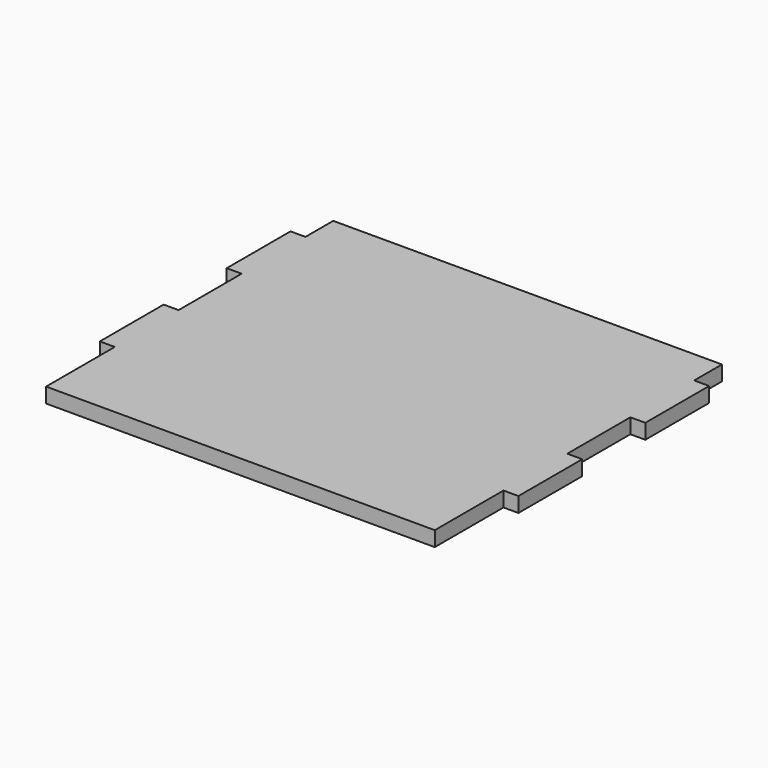
from build123d import *

# Parameters (mm, degrees)
F0_W     = 19.05
F0_H     = 109.4232
F0_H_2   = 100.4824
F0_H_3   = 44.2214
F1_DEPTH = 19.05
F2_DEPTH = 19.051


with BuildPart() as f1:
    # F0 (on Top) → F1 (new body)
    with BuildSketch(Plane.XY):
        with Locations((-471.269231, -143.923693)):
            Rectangle(F0_W, F0_H)
        Polygon((-461.744231, -89.212093), (-461.744231, -198.635293), (33.555769, -198.635293), (33.555769, -89.212093), (52.605769, -89.212093), (52.605769, 12.387907), (33.555769, 12.387907), (33.555769, 112.870307), (52.605769, 112.870307), (52.605769, 214.470307), (33.555769, 214.470307), (33.555769, 258.691707), (-461.744231, 258.691707), (-461.744231, 214.470307), (-480.794231, 214.470307), (-480.794231, 112.870307), (-461.744231, 112.870307), (-461.744231, 12.387907), (-480.794231, 12.387907), (-480.794231, 11.117907), (-480.794231, -89.212093), align=None)
        with Locations((43.080769, -143.923693)):
            Rectangle(F0_W, F0_H)
        Polygon((-480.794231, 76.554656), (-480.794231, 12.387907), (-461.744231, 12.387907), (-461.744231, 112.870307), (-480.794231, 112.870307), align=None)
        with Locations((43.080769, 62.629107)):
            Rectangle(F0_W, F0_H_2)
        with Locations((-471.269231, 236.581007)):
            Rectangle(F0_W, F0_H_3)
        with Locations((43.080769, 236.581007)):
            Rectangle(F0_W, F0_H_3)
    extrude(amount=F1_DEPTH)

    # F0 (on Top) → F2 (cut, through all)
    with BuildSketch(Plane.XY):
        Polygon((-480.794231, 76.554656), (-480.794231, 12.387907), (-461.744231, 12.387907), (-461.744231, 112.870307), (-480.794231, 112.870307), align=None)
        with Locations((-471.269231, 236.581007)):
            Rectangle(F0_W, F0_H_3)
        with Locations((-471.269231, -143.923693)):
            Rectangle(F0_W, F0_H)
        with Locations((43.080769, -143.923693)):
            Rectangle(F0_W, F0_H)
        with Locations((43.080769, 62.629107)):
            Rectangle(F0_W, F0_H_2)
        with Locations((43.080769, 236.581007)):
            Rectangle(F0_W, F0_H_3)
    extrude(amount=F2_DEPTH, mode=Mode.SUBTRACT)


solid = f1.part
